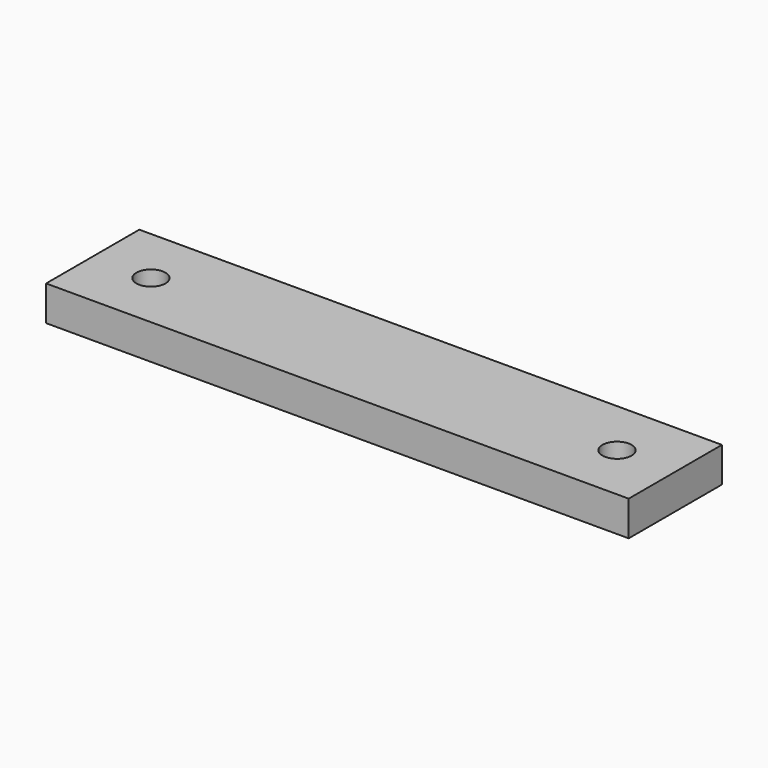
from build123d import *

# Parameters (mm, degrees)
F0_R     = 1.25
F1_DEPTH = 3


with BuildPart() as f1:
    # F0 (on Top) → F1 (new body)
    with BuildSketch(Plane.XY):
        Polygon((25, 5), (-25, 5), (-25, -5), (-5, -5), (0, -5), (4.999955, -5), (25, -5), align=None)
        with Locations((-20, 0)):
            Circle(F0_R, mode=Mode.SUBTRACT)
        with Locations((20, 0)):
            Circle(F0_R, mode=Mode.SUBTRACT)
    extrude(amount=F1_DEPTH)


solid = f1.part
